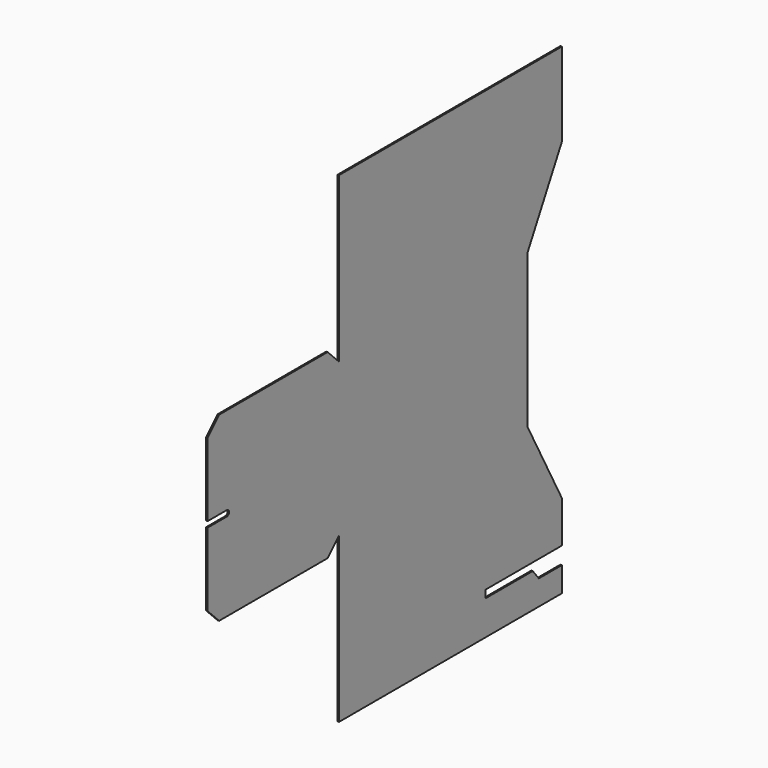
from build123d import *

# Parameters (mm, degrees)
F0_W     = 246.5
F0_H     = 160
F1_DEPTH = 1.5


with BuildPart() as f1:
    # F0 (on Right) → F1 (new body)
    with BuildSketch(Plane.YZ):
        with BuildLine():
            Line((-295.25, -80), (-123.25, -80))
            Line((-123.25, -80), (-123.25, 80))
            Line((-123.25, 80), (-123.695542, 80))
            Line((-123.695542, 80), (-295.25, 80))
            Line((-295.25, 80), (-295.25, 3))
            Line((-295.25, 3), (-270.25, 3))
            ThreePointArc((-270.25, 3), (-267.25, 0), (-270.25, -3))
            Line((-270.25, -3), (-295.25, -3))
            Line((-295.25, -3), (-295.25, -80))
        make_face()
        Polygon((-123.695542, 80), (-123.25, 80), (-138.25, 95), (-280.25, 95), (-295.25, 80), align=None)
        Polygon((-138.25, -95), (-123.25, -80), (-295.25, -80), (-280.25, -95), align=None)
        Rectangle(F0_W, F0_H)
        Polygon((-123.25, 80), (123.25, 80), (168.25, 164), (168.25, 252), (-123.25, 252), align=None)
        Polygon((168.25, -164), (123.25, -80), (-123.25, -80), (-123.25, -252), (168.25, -252), (168.25, -226), (138.25, -226), (130.25, -216), (68.25, -216), (68.25, -208), (168.25, -208), align=None)
    extrude(amount=F1_DEPTH)


solid = f1.part
